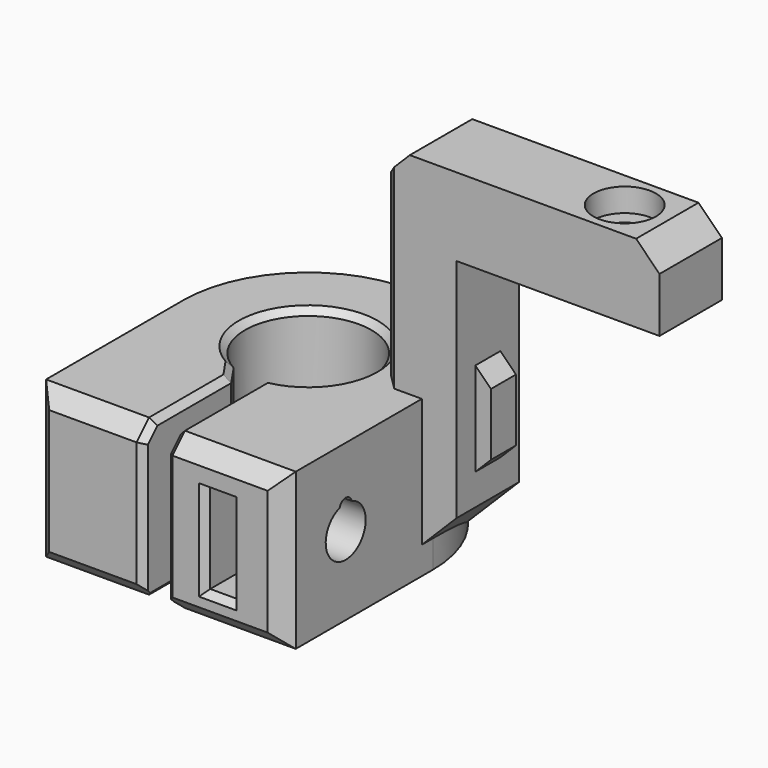
from build123d import *

# Parameters (mm, degrees)
BOX025014011_W        = 6
BOX025014011_H        = 2
BOX025014011_DEPTH    = 6
CHAMFER009008018_SIZE = 1
CYLINDER027_R         = 2
CYLINDER027_DEPTH     = 2
CYLINDER026_R         = 1
CYLINDER026_DEPTH     = 14
BOX025014014_W        = 18
BOX025014014_H        = 5
BOX025014014_DEPTH    = 5
CHAMFER009008025_SIZE = 1.5
CHAMFER009008026_SIZE = 2
BOX025014013_W        = 5
BOX025014013_H        = 5
BOX025014013_DEPTH    = 19
CHAMFER009008024_SIZE = 4
CHAMFER009008027_SIZE = 1
BOX025014010_W        = 2
BOX025014010_H        = 9
BOX025014010_DEPTH    = 6
BOX025014004_W        = 1.5
BOX025014004_H        = 12
BOX025014004_DEPTH    = 11
CYLINDER028_R         = 4.05
CYLINDER028_DEPTH     = 19
CYLINDER023_R         = 0.5
CYLINDER023_DEPTH     = 20
CYLINDER021_R         = 1.6
CYLINDER021_DEPTH     = 20
CYLINDER022_R         = 0.5
CYLINDER022_DEPTH     = 3
CYLINDER024_R         = 3
CYLINDER024_DEPTH     = 3
CYLINDER020_R         = 4
CYLINDER020_DEPTH     = 10
CYLINDER019_R         = 8
CYLINDER019_DEPTH     = 10
BOX025014003_W        = 16
BOX025014003_H        = 12
BOX025014003_DEPTH    = 10
CHAMFER009008028_SIZE = 1
CHAMFER009008029_SIZE = 1
CHAMFER009008030_SIZE = 0.4


with BuildPart() as chamfer009008018:
    # Box025014011 → Box025014011 (new body)
    with BuildSketch(Plane(origin=(5.23, -32.4, 15), x_dir=(1, 0, 0), z_dir=(0, 0, 1))):
        with Locations((3, 1)):
            Rectangle(BOX025014011_W, BOX025014011_H)
    extrude(amount=BOX025014011_DEPTH)

    # Chamfer009008018
    chamfer009008018_edges = [chamfer009008018.edges().sort_by_distance(p)[0] for p in [
        (11.23, -31.4, 21),
        (11.23, -31.4, 15),
    ]]
    chamfer(chamfer009008018_edges, length=CHAMFER009008018_SIZE)


with BuildPart() as cylinder027:
    # Cylinder027 → Cylinder027 (new body)
    with BuildSketch(Plane(origin=(19, -31.4, 31), x_dir=(1, 0, 0), z_dir=(0, 0, 1))):
        Circle(CYLINDER027_R)
    extrude(amount=CYLINDER027_DEPTH)


with BuildPart() as cylinder026:
    # Cylinder026 → Cylinder026 (new body)
    with BuildSketch(Plane(origin=(19, -31.4, 25), x_dir=(1, 0, 0), z_dir=(0, 0, 1))):
        Circle(CYLINDER026_R)
    extrude(amount=CYLINDER026_DEPTH)


with BuildPart() as cut007002001007029003046003:
    # Box025014014 → Box025014014 (new body)
    with BuildSketch(Plane(origin=(5.23, -33.9, 27.5), x_dir=(1, 0, 0), z_dir=(0, 0, 1))):
        with Locations((9, 2.5)):
            Rectangle(BOX025014014_W, BOX025014014_H)
    extrude(amount=BOX025014014_DEPTH)

    # Cut007002001007029003046002: cut Cylinder026
    add(cylinder026.part, mode=Mode.SUBTRACT)

    # Chamfer009008025
    chamfer009008025_edges = [cut007002001007029003046003.edges().sort_by_distance(p)[0] for p in [
        (23.23, -31.4, 32.5),
    ]]
    chamfer(chamfer009008025_edges, length=CHAMFER009008025_SIZE)

    # Chamfer009008026
    chamfer009008026_edges = [cut007002001007029003046003.edges().sort_by_distance(p)[0] for p in [
        (5.23, -31.4, 32.5),
    ]]
    chamfer(chamfer009008026_edges, length=CHAMFER009008026_SIZE)

    # Cut007002001007029003046003: cut Cylinder027
    add(cylinder027.part, mode=Mode.SUBTRACT)


with BuildPart() as chamfer009008027:
    # Box025014013 → Box025014013 (new body)
    with BuildSketch(Plane(origin=(5.23, -33.9, 9), x_dir=(1, 0, 0), z_dir=(0, 0, 1))):
        with Locations((2.5, 2.5)):
            Rectangle(BOX025014013_W, BOX025014013_H)
    extrude(amount=BOX025014013_DEPTH)

    # Chamfer009008024
    chamfer009008024_edges = [chamfer009008027.edges().sort_by_distance(p)[0] for p in [
        (10.23, -31.4, 9),
    ]]
    chamfer(chamfer009008024_edges, length=CHAMFER009008024_SIZE)

    # Fusion010020009006: union Chamfer009008018, Cut007002001007029003046003
    add(chamfer009008018.part)
    add(cut007002001007029003046003.part)

    # Chamfer009008027
    chamfer009008027_edges = [chamfer009008027.edges().sort_by_distance(p)[0] for p in [
        (5.23, -33.9, 18.25),
        (5.23, -28.9, 18.25),
    ]]
    chamfer(chamfer009008027_edges, length=CHAMFER009008027_SIZE)


with BuildPart() as cube054:
    # Box025014010 → Box025014010 (new body)
    with BuildSketch(Plane(origin=(3, -46, 11), x_dir=(1, 0, 0), z_dir=(0, 0, 1))):
        with Locations((1, 4.5)):
            Rectangle(BOX025014010_W, BOX025014010_H)
    extrude(amount=BOX025014010_DEPTH)


with BuildPart() as cube048:
    # Box025014004 → Box025014004 (new body)
    with BuildSketch(Plane(origin=(-1, -46, 9), x_dir=(1, 0, 0), z_dir=(0, 0, 1))):
        with Locations((0.75, 6)):
            Rectangle(BOX025014004_W, BOX025014004_H)
    extrude(amount=BOX025014004_DEPTH)


with BuildPart() as cylinder028:
    # Cylinder028 → Cylinder028 (new body)
    with BuildSketch(Plane(origin=(0, -33, 0), x_dir=(1, 0, 0), z_dir=(0, 0, 1))):
        Circle(CYLINDER028_R)
    extrude(amount=CYLINDER028_DEPTH)


with BuildPart() as cylinder023:
    # Cylinder023 → Cylinder023 (new body)
    with BuildSketch(Plane(origin=(11, -40, 16.4), x_dir=(0, 0, 1), z_dir=(-1, 0, 0))):
        Circle(CYLINDER023_R)
    extrude(amount=CYLINDER023_DEPTH)


with BuildPart() as fusion010020009005:
    # Cylinder021 → Cylinder021 (new body)
    with BuildSketch(Plane(origin=(11, -40, 15), x_dir=(0, 0, 1), z_dir=(-1, 0, 0))):
        Circle(CYLINDER021_R)
    extrude(amount=CYLINDER021_DEPTH)

    # Fusion010020009005: union Cylinder023
    add(cylinder023.part)


with BuildPart() as fusion010020009005_1:
    # Fusion010020009005 placement: moved
    add(fusion010020009005.part.moved(Location((0, 0, -1))))


with BuildPart() as cylinder022:
    # Cylinder022 → Cylinder022 (new body)
    with BuildSketch(Plane(origin=(-5, -40, 17.8), x_dir=(0, 0, 1), z_dir=(-1, 0, 0))):
        Circle(CYLINDER022_R)
    extrude(amount=CYLINDER022_DEPTH)


with BuildPart() as fusion010020009007005:
    # Cylinder024 → Cylinder024 (new body)
    with BuildSketch(Plane(origin=(-5, -40, 15), x_dir=(0, 0, 1), z_dir=(-1, 0, 0))):
        Circle(CYLINDER024_R)
    extrude(amount=CYLINDER024_DEPTH)

    # Fusion010020009004: union Cylinder022
    add(cylinder022.part)


with BuildPart() as fusion010020009007005_1:
    # Fusion010020009004 placement: moved
    add(fusion010020009007005.part.moved(Location((0, 0, -1))))

    # Fusion010020009007005: union Fusion010020009005
    add(fusion010020009005_1.part)


with BuildPart() as cylinder020:
    # Cylinder020 → Cylinder020 (new body)
    with BuildSketch(Plane(origin=(0, -33, 9), x_dir=(1, 0, 0), z_dir=(0, 0, 1))):
        Circle(CYLINDER020_R)
    extrude(amount=CYLINDER020_DEPTH)


with BuildPart() as cylinder019:
    # Cylinder019 → Cylinder019 (new body)
    with BuildSketch(Plane(origin=(0, -33, 10), x_dir=(1, 0, 0), z_dir=(0, 0, 1))):
        Circle(CYLINDER019_R)
    extrude(amount=CYLINDER019_DEPTH)


with BuildPart() as probe_mount_rev2:
    # Box025014003 → Box025014003 (new body)
    with BuildSketch(Plane(origin=(-8, -45, 10), x_dir=(1, 0, 0), z_dir=(0, 0, 1))):
        with Locations((8, 6)):
            Rectangle(BOX025014003_W, BOX025014003_H)
    extrude(amount=BOX025014003_DEPTH)

    # Fusion010020009003: union Cylinder019
    add(cylinder019.part)


with BuildPart() as probe_mount_rev2_1:
    # Fusion010020009003 placement: moved
    add(probe_mount_rev2.part.moved(Location((0, 0, -1))))

    # Cut007002001007029003046004: cut Cylinder020
    add(cylinder020.part, mode=Mode.SUBTRACT)

    # Cut007002001007029003046005: cut Fusion010020009007005
    add(fusion010020009007005_1.part, mode=Mode.SUBTRACT)

    # Chamfer009008028
    chamfer009008028_edges = [probe_mount_rev2_1.edges().sort_by_distance(p)[0] for p in [
        (-8, -45, 14),
        (0, -45, 9),
        (8, -45, 14),
        (0, -45, 19),
    ]]
    chamfer(chamfer009008028_edges, length=CHAMFER009008028_SIZE)

    # Cut007002001007029003046006: cut Cylinder028
    add(cylinder028.part, mode=Mode.SUBTRACT)

    # Cut007002001007029003046007: cut Cube048
    add(cube048.part, mode=Mode.SUBTRACT)

    # Cut007002001007029003046008: cut Cube054
    add(cube054.part, mode=Mode.SUBTRACT)

    # Chamfer009008029
    chamfer009008029_edges = [probe_mount_rev2_1.edges().sort_by_distance(p)[0] for p in [
        (-1, -36.924602, 14),
    ]]
    chamfer(chamfer009008029_edges, length=CHAMFER009008029_SIZE)

    # Chamfer009008030
    chamfer009008030_edges = [probe_mount_rev2_1.edges().sort_by_distance(p)[0] for p in [
        (-1, -39.430928, 19),
        (-1.465571, -37.242272, 19),
        (-3.480203, -35.071398, 19),
        (-1, -42.468627, 19),
        (-1, -39.430928, 9),
        (-1, -44.5, 18.5),
        (-1, -42.468627, 9),
        (-1, -45, 14),
        (-1.465571, -37.242272, 9),
        (0, -28.95, 19),
        (-3.480203, -35.071398, 9),
        (0, -28.95, 9),
        (3.035416, -35.681184, 9),
        (0.5, -37.019017, 14),
        (3.035416, -35.681184, 19),
        (0.5, -39.001689, 19),
        (0.5, -39.001689, 9),
        (0.5, -45, 14),
        (0.5, -44.5, 18.5),
        (0.5, -42.49218, 19),
        (0.5, -42.49218, 9),
        (4, -45, 11),
        (3, -45, 14),
    ]]
    chamfer(chamfer009008030_edges, length=CHAMFER009008030_SIZE)

    # Fusion010020009007006003: union Chamfer009008027
    add(chamfer009008027.part)


solid = probe_mount_rev2_1.part
